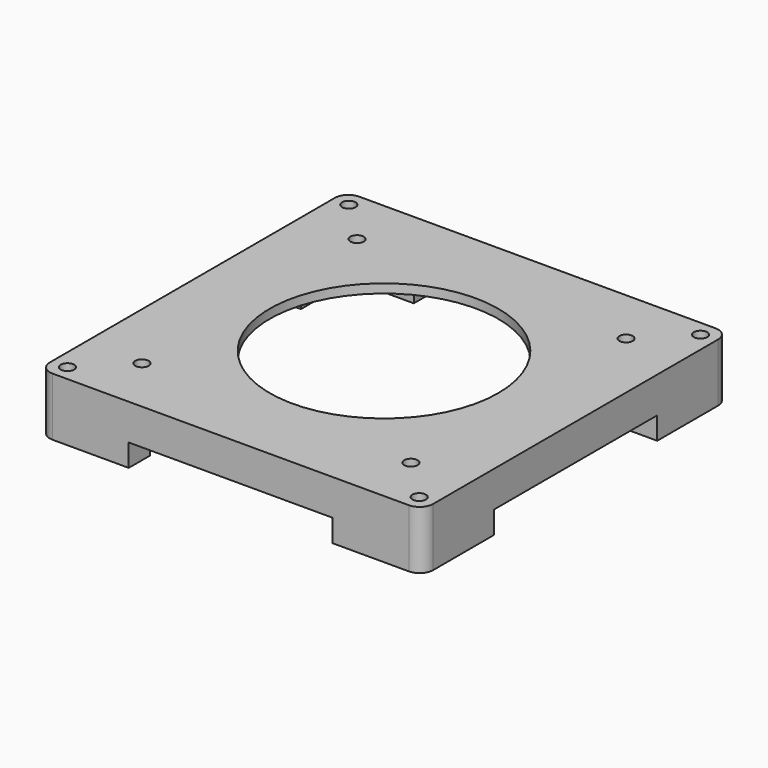
from build123d import *

# Parameters (mm, degrees)
SKETCH021_W             = 85.5
SKETCH021_H             = 85.5
SKETCH021_W_2           = 73.5
SKETCH021_H_2           = 73.5
PAD009006_DEPTH         = 11
SKETCH022_W             = 85.5
SKETCH022_H             = 85.5
SKETCH022_R             = 25.5
PAD009007_DEPTH         = 2
SKETCH023_R             = 1.5
POCKET003002_DEPTH      = 13.001
SKETCH024_R             = 1.5
POCKET003003_DEPTH      = 5
FILLET003_R             = 3
SKETCH025_W             = 45.5
SKETCH025_H             = 5
POCKET003004_DEPTH      = 85.501
POCKET003004_DEPTH_BACK = 0.001
SKETCH026_W             = 45.5
SKETCH026_H             = 5
POCKET003005_DEPTH      = 85.501


with BuildPart() as part:
    # Sketch021 → Pad009006 (new body)
    with BuildSketch(Plane.XY):
        Rectangle(SKETCH021_W, SKETCH021_H)
        Rectangle(SKETCH021_W_2, SKETCH021_H_2, mode=Mode.SUBTRACT)
    extrude(amount=PAD009006_DEPTH)

    # Sketch022 (on Face10 of Pad009006) → Pad009007 (join)
    with BuildSketch(Plane.XY.offset(11)):
        Rectangle(SKETCH022_W, SKETCH022_H)
        Circle(SKETCH022_R, mode=Mode.SUBTRACT)
    extrude(amount=PAD009007_DEPTH)

    # Sketch023 (on Face4 of Pad009007) → Pocket003002 (cut, through all)
    with BuildSketch(Plane(origin=(0, 0, 0), x_dir=(1, 0, 0), z_dir=(0, 0, -1))):
        with Locations((-39.235281, 39.235281)):
            Circle(SKETCH023_R)
        with Locations((39.235281, 39.235281)):
            Circle(SKETCH023_R)
        with Locations((39.235281, -39.235281)):
            Circle(SKETCH023_R)
        with Locations((-39.235281, -39.235281)):
            Circle(SKETCH023_R)
    extrude(amount=-POCKET003002_DEPTH, mode=Mode.SUBTRACT)

    # Sketch024 (on Face17 of Pocket003002) → Pocket003003 (cut)
    with BuildSketch(Plane.XY.offset(13)):
        with Locations((-30, 30)):
            Circle(SKETCH024_R)
        with Locations((30, 30)):
            Circle(SKETCH024_R)
        with Locations((30, -30)):
            Circle(SKETCH024_R)
        with Locations((-30, -30)):
            Circle(SKETCH024_R)
    extrude(amount=-POCKET003003_DEPTH, mode=Mode.SUBTRACT)

    # Fillet003
    fillet003_edges = [part.edges().sort_by_distance(p)[0] for p in [
        (42.75, 42.75, 5.5),
        (-42.75, 42.75, 5.5),
        (-42.75, -42.75, 5.5),
        (42.75, -42.75, 5.5),
    ]]
    fillet(fillet003_edges, radius=FILLET003_R)

    # Sketch025 (on Face1 of Fillet003) → Pocket003004 (cut, two sides)
    with BuildSketch(Plane(origin=(0, 42.75, 0), x_dir=(-1, 0, 0), z_dir=(0, 1, 0))) as pocket003004_sk:
        with Locations((0, 2.5)):
            Rectangle(SKETCH025_W, SKETCH025_H)
    extrude(amount=-POCKET003004_DEPTH, mode=Mode.SUBTRACT)
    extrude(pocket003004_sk.sketch, amount=POCKET003004_DEPTH_BACK, mode=Mode.SUBTRACT)

    # Sketch026 (on Face19 of Pocket003004) → Pocket003005 (cut, through all)
    with BuildSketch(Plane.YZ.offset(42.75)):
        with Locations((0, 2.5)):
            Rectangle(SKETCH026_W, SKETCH026_H)
    extrude(amount=-POCKET003005_DEPTH, mode=Mode.SUBTRACT)


solid = part.part
